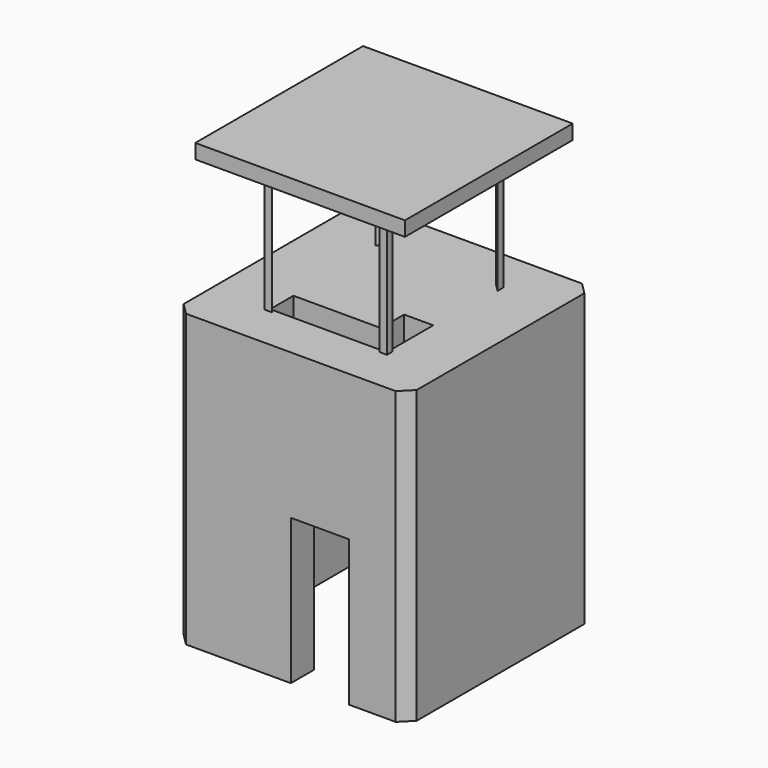
from build123d import *

# Parameters (mm, degrees)
F0_W      = 101.6
F0_H      = 101.6
F0_W_2    = 76.2
F0_H_2    = 76.2
F1_DEPTH  = 127
F2_W      = 25.4
F2_H      = 63.5
F3_DEPTH  = 25.4
F4_W      = 76.2
F4_H      = 12.7
F5_DEPTH  = 77.724
F7_DEPTH  = 25.4
F9_DEPTH  = 57.15
F10_W     = 91.44
F10_H     = 91.44
F11_DEPTH = 6.35
F12_SIZE2 = 5.08
F12_SIZE  = 5.08


with BuildPart() as f1:
    # F0 (on Top) → F1 (new body)
    with BuildSketch(Plane.XY):
        Rectangle(F0_W, F0_H)
        Rectangle(F0_W_2, F0_H_2, mode=Mode.SUBTRACT)
    extrude(amount=F1_DEPTH)

    # F2 (on face) → F3 (cut)
    with BuildSketch(Plane.XZ.offset(50.8)):
        with Locations((12.7, 31.75)):
            Rectangle(F2_W, F2_H)
    extrude(amount=-F3_DEPTH, mode=Mode.SUBTRACT)

    # F4 (on face) → F5 (join)
    with BuildSketch(Plane.XZ.offset(-38.1)):
        with Locations((0, 120.65)):
            Rectangle(F4_W, F4_H)
    extrude(amount=F5_DEPTH)

    # F6 (on face) → F7 (cut)
    with BuildSketch(Plane.XY.offset(127)):
        Polygon((-25.4, -17.603385), (-25.4, -30.303385), (25.4, -30.303385), (25.4, -17.603385), (25.4, -4.903385), (12.7, -4.903385), (12.7, -17.603385), align=None)
    extrude(amount=-F7_DEPTH, mode=Mode.SUBTRACT)

    # F8 (on face) → F9 (join)
    with BuildSketch(Plane.XY.offset(127)):
        Polygon((-23.495, -31.75), (-26.67, -28.575), (-26.67, -31.75), align=None)
        Polygon((-26.67, 28.575), (-23.495, 31.75), (-26.67, 31.75), align=None)
        Polygon((26.67, -28.575), (23.495, -31.75), (26.67, -31.75), align=None)
        Polygon((23.495, 31.75), (26.67, 28.575), (26.67, 31.75), align=None)
    extrude(amount=F9_DEPTH)

    # F10 (on face) → F11 (join)
    with BuildSketch(Plane.XY.offset(184.15)):
        Rectangle(F10_W, F10_H)
    extrude(amount=F11_DEPTH)

    # F12
    f12_edges = [f1.edges().sort_by_distance(p)[0] for p in [
        (50.8, -50.8, 63.5),
        (-50.8, -50.8, 63.5),
        (50.8, 50.8, 63.5),
        (-50.8, 50.8, 63.5),
    ]]
    chamfer(f12_edges, length=F12_SIZE, length2=F12_SIZE2)


solid = f1.part
